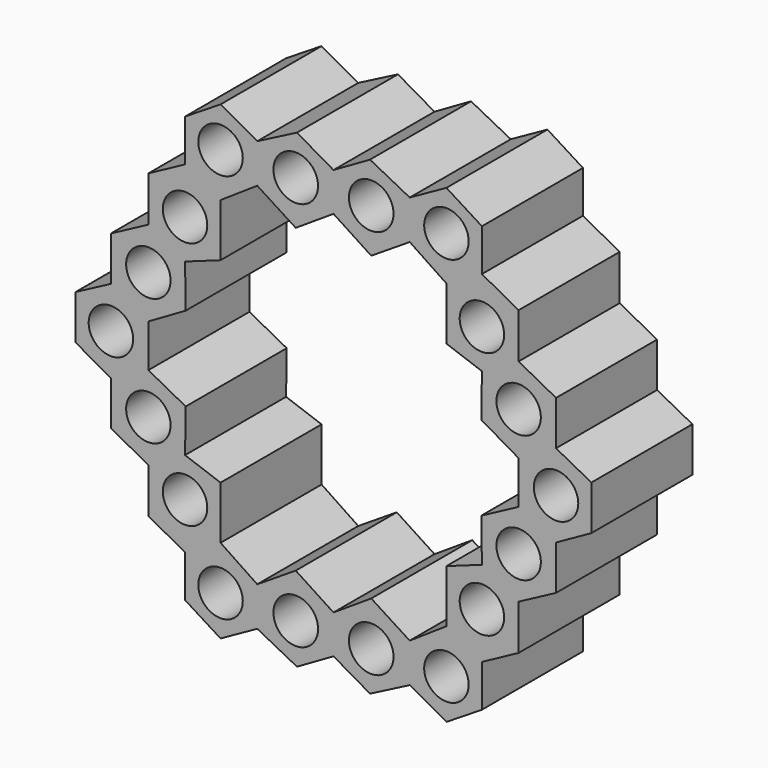
from build123d import *

# Parameters (mm, degrees)
F0_R     = 4.4723953016
F0_R_2   = 4.4699433495
F0_R_3   = 4.4865038471
F0_R_4   = 4.4704
F1_DEPTH = 25.4


with BuildPart() as f1:
    # F0 (on Front) → F1 (new body)
    with BuildSketch(Plane.XZ):
        Polygon((-29.8565831035, 42.8078435361), (-29.8565831035, 34.337323159), (-22.7171443403, 30.3440783173), (-15.336762752, 35.2895531338), (-15.336762752, 43.1670817552), (-22.7171443403, 47.285117209), align=None)
        with Locations((-22.7171443403, 39.2283174445)):
            Circle(F0_R, mode=Mode.SUBTRACT)
        Polygon((-22.7171443403, 30.3440783173), (-29.8565831035, 34.337323159), (-37.238035351, 30.3440783173), (-37.238035351, 21.2685223682), (-29.8565831035, 17.1399140715), (-22.7171443403, 19.6934139464), align=None)
        with Locations((-29.8565831035, 25.0187461318)):
            Circle(F0_R_2, mode=Mode.SUBTRACT)
        Polygon((-15.336762752, 43.1670817552), (-15.336762752, 35.2895531338), (-7.5912186876, 30.3440783173), (0, 35.2895531338), (0, 43.0498570204), (-7.3492033407, 47.285117209), align=None)
        with Locations((-7.5912186876, 39.2283174445)):
            Circle(F0_R_3, mode=Mode.SUBTRACT)
        Polygon((-29.8565831035, 17.1399140715), (-37.238035351, 21.2685223682), (-44.7648577392, 17.2623099094), (-44.7648577392, 8.3431052044), (-37.238035351, 4.1331881966), (-29.7259818762, 8.483578451), align=None)
        with Locations((-37.238035351, 12.8027075569)):
            Circle(F0_R_4, mode=Mode.SUBTRACT)
        Polygon((0, 43.0498570204), (0, 35.2895531338), (7.5912186876, 30.3440783173), (15.336762752, 35.2895531338), (15.336762752, 43.1670817552), (7.3492033407, 47.285117209), align=None)
        with Locations((7.5912186876, 39.2283174445)):
            Circle(F0_R_3, mode=Mode.SUBTRACT)
        Polygon((-37.238035351, 4.1331881966), (-44.7648577392, 8.3431052044), (-51.8703386188, 4.5852214098), (-51.8703386188, -4.3693268672), (-44.7648577392, -8.343578319), (-37.2284390032, -4.4903345406), align=None)
        with Locations((-44.7648577392, 0)):
            Circle(F0_R_4, mode=Mode.SUBTRACT)
        Polygon((15.336762752, 43.1670817552), (15.336762752, 35.2895531338), (22.7171443403, 30.3440783173), (29.8565831035, 34.337323159), (29.8565831035, 42.8078435361), (22.7171443403, 47.285117209), align=None)
        with Locations((22.7171443403, 39.2283174445)):
            Circle(F0_R, mode=Mode.SUBTRACT)
        Polygon((-29.7259818762, -8.483578451), (-37.2284390032, -4.4903345406), (-44.7648577392, -8.343578319), (-44.7648577392, -17.2623099094), (-37.238035351, -21.2685223682), (-29.8565831035, -17.1399140715), align=None)
        with Locations((-37.238035351, -12.8027075569)):
            Circle(F0_R_4, mode=Mode.SUBTRACT)
        Polygon((29.8565831035, 34.337323159), (22.7171443403, 30.3440783173), (22.7171443403, 19.6934139464), (29.8565831035, 17.1399140715), (37.238035351, 21.2685223682), (37.238035351, 30.3440783173), align=None)
        with Locations((29.8565831035, 25.0187461318)):
            Circle(F0_R_2, mode=Mode.SUBTRACT)
        Polygon((-22.7171443403, -19.6934139464), (-29.8565831035, -17.1399140715), (-37.238035351, -21.2685223682), (-37.238035351, -30.3440783173), (-29.8565831035, -34.337323159), (-22.7171443403, -30.3440783173), align=None)
        with Locations((-29.8565831035, -25.0187461318)):
            Circle(F0_R_2, mode=Mode.SUBTRACT)
        Polygon((37.238035351, 21.2685223682), (29.8565831035, 17.1399140715), (29.7259818762, 8.483578451), (37.238035351, 4.1331881966), (44.7648577392, 8.3431052044), (44.7648577392, 17.2623099094), align=None)
        with Locations((37.238035351, 12.8027075569)):
            Circle(F0_R_4, mode=Mode.SUBTRACT)
        Polygon((-15.336762752, -35.2895531338), (-22.7171443403, -30.3440783173), (-29.8565831035, -34.337323159), (-29.8565831035, -42.8078435361), (-22.7171443403, -47.285117209), (-15.336762752, -43.1670817552), align=None)
        with Locations((-22.7171443403, -39.2283174445)):
            Circle(F0_R, mode=Mode.SUBTRACT)
        Polygon((0, -35.2895531338), (-7.5912186876, -30.3440783173), (-15.336762752, -35.2895531338), (-15.336762752, -43.1670817552), (-7.3492033407, -47.285117209), (0, -43.0498570204), align=None)
        with Locations((-7.5912186876, -39.2283174445)):
            Circle(F0_R_3, mode=Mode.SUBTRACT)
        Polygon((15.336762752, -35.2895531338), (7.5912186876, -30.3440783173), (0, -35.2895531338), (0, -43.0498570204), (7.3492033407, -47.285117209), (15.336762752, -43.1670817552), align=None)
        with Locations((7.5912186876, -39.2283174445)):
            Circle(F0_R_3, mode=Mode.SUBTRACT)
        Polygon((44.7648577392, 8.3431052044), (37.238035351, 4.1331881966), (37.2284390032, -4.4903345406), (44.7648577392, -8.343578319), (51.8703386188, -4.3693268672), (51.8703386188, 4.5852214098), align=None)
        with Locations((44.7648577392, 0)):
            Circle(F0_R_4, mode=Mode.SUBTRACT)
        Polygon((37.2284390032, -4.4903345406), (29.7259818762, -8.483578451), (29.8565831035, -17.1399140715), (37.238035351, -21.2685223682), (44.7648577392, -17.2623099094), (44.7648577392, -8.343578319), align=None)
        with Locations((37.238035351, -12.8027075569)):
            Circle(F0_R_4, mode=Mode.SUBTRACT)
        Polygon((29.8565831035, -17.1399140715), (22.7171443403, -19.6934139464), (22.7171443403, -30.3440783173), (29.8565831035, -34.337323159), (37.238035351, -30.3440783173), (37.238035351, -21.2685223682), align=None)
        with Locations((29.8565831035, -25.0187461318)):
            Circle(F0_R_2, mode=Mode.SUBTRACT)
        Polygon((22.7171443403, -30.3440783173), (15.336762752, -35.2895531338), (15.336762752, -43.1670817552), (22.7171443403, -47.285117209), (29.8565831035, -42.8078435361), (29.8565831035, -34.337323159), align=None)
        with Locations((22.7171443403, -39.2283174445)):
            Circle(F0_R, mode=Mode.SUBTRACT)
    extrude(amount=F1_DEPTH)


solid = f1.part
